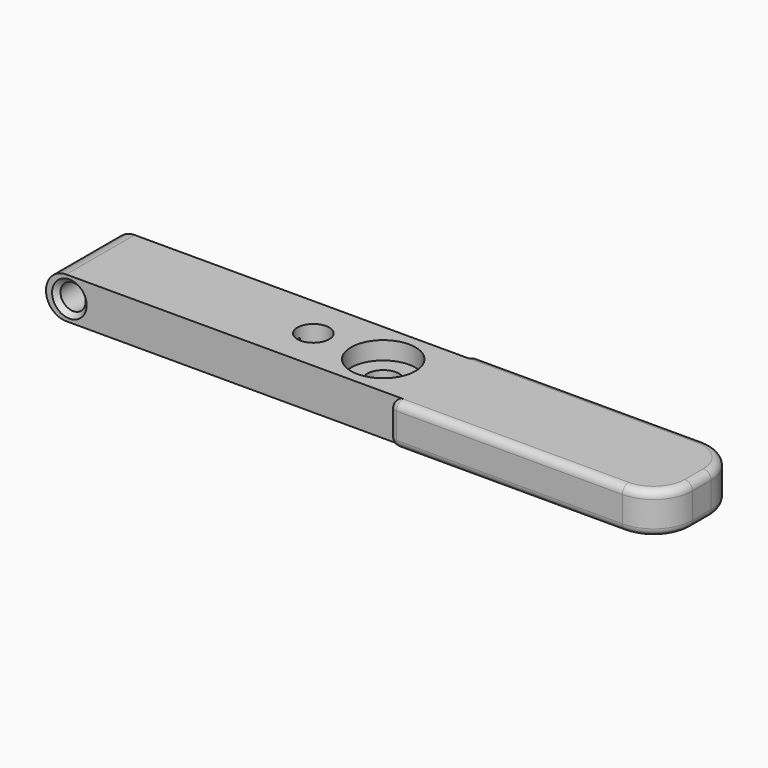
from build123d import *

# Parameters (mm, degrees)
PAD_DEPTH       = 5.3
SKETCH001_R     = 4.15
POCKET_DEPTH    = 2.3
SKETCH002_R     = 2.05
POCKET001_DEPTH = 3.001
FILLET_R        = 2.6
SKETCH003_R     = 1.625
POCKET002_DEPTH = 12.001
FILLET001_R     = 0.9
FILLET002_R     = 5
SKETCH004_R     = 2.05
POCKET003_DEPTH = 5.301
FILLET003_R     = 0.99
CHAMFER_SIZE    = 0.5
SKETCH005_W     = 0.5
SKETCH005_H     = 0.8
POCKET004_DEPTH = 4
CHAMFER001_SIZE = 0.6


with BuildPart() as part:
    # Sketch → Pad (new body)
    with BuildSketch(Plane.XY):
        Polygon((0, 5.5), (-45, 5.5), (-45, -5.5), (0, -5.5), (0, -6.5), (35, -6.5), (35, 6.5), (0, 6.5), align=None)
    extrude(amount=PAD_DEPTH)

    # Sketch001 (on Face10 of Pad) → Pocket (cut)
    with BuildSketch(Plane.XY.offset(5.3)):
        with Locations((-6, 0)):
            Circle(SKETCH001_R)
    extrude(amount=-POCKET_DEPTH, mode=Mode.SUBTRACT)

    # Sketch002 (on Face12 of Pocket) → Pocket001 (cut, through all)
    with BuildSketch(Plane.XY.offset(3)):
        with Locations((-6, 0)):
            Circle(SKETCH002_R)
    extrude(amount=-POCKET001_DEPTH, mode=Mode.SUBTRACT)

    # Fillet
    fillet_edges = [part.edges().sort_by_distance(p)[0] for p in [
        (-45, 0, 5.3),
        (-45, 0, 0),
    ]]
    fillet(fillet_edges, radius=FILLET_R)

    # Sketch003 (on Face1 of Fillet) → Pocket002 (cut, through all)
    with BuildSketch(Plane(origin=(0, 5.5, 0), x_dir=(-1, 0, 0), z_dir=(0, 1, 0))):
        with Locations((42, 2.65)):
            Circle(SKETCH003_R)
    extrude(amount=-POCKET002_DEPTH, mode=Mode.SUBTRACT)

    # Fillet001
    fillet001_edges = [part.edges().sort_by_distance(p)[0] for p in [
        (0, 6.5, 2.65),
        (0, -6.5, 2.65),
    ]]
    fillet(fillet001_edges, radius=FILLET001_R)

    # Fillet002
    fillet002_edges = [part.edges().sort_by_distance(p)[0] for p in [
        (35, 6.5, 2.65),
        (35, -6.5, 2.65),
    ]]
    fillet(fillet002_edges, radius=FILLET002_R)

    # Sketch004 (on Face15 of Fillet002) → Pocket003 (cut, through all)
    with BuildSketch(Plane.XY.offset(5.3)):
        with Locations((-15, 0)):
            Circle(SKETCH004_R)
    extrude(amount=-POCKET003_DEPTH, mode=Mode.SUBTRACT)

    # Fillet003
    fillet003_edges = [part.edges().sort_by_distance(p)[0] for p in [
        (0.263604, -6.236396, 5.3),
        (15.45, -6.5, 5.3),
        (33.535534, -5.035534, 5.3),
        (35, 0, 5.3),
        (33.535534, 5.035534, 5.3),
        (15.45, 6.5, 5.3),
        (0.263604, 6.236396, 5.3),
        (0.263604, 6.236396, 0),
        (15.45, 6.5, 0),
        (33.535534, 5.035534, 0),
        (35, 0, 0),
        (33.535534, -5.035534, 0),
        (15.45, -6.5, 0),
    ]]
    fillet(fillet003_edges, radius=FILLET003_R)

    # Chamfer
    chamfer_edges = [part.edges().sort_by_distance(p)[0] for p in [
        (-17.05, 0, 0),
        (-8.05, 0, 0),
    ]]
    chamfer(chamfer_edges, length=CHAMFER_SIZE)

    # Sketch005 (on Face1 of Chamfer) → Pocket004 (cut)
    with BuildSketch(Plane(origin=(0, 0, 0), x_dir=(1, 0, 0), z_dir=(0, 0, -1))):
        with Locations((-17.15, 0)):
            Rectangle(SKETCH005_W, SKETCH005_H)
    extrude(amount=-POCKET004_DEPTH, mode=Mode.SUBTRACT)

    # Chamfer001
    chamfer001_edges = [part.edges().sort_by_distance(p)[0] for p in [
        (-40.375, 5.5, 2.65),
        (-40.375, -5.5, 2.65),
    ]]
    chamfer(chamfer001_edges, length=CHAMFER001_SIZE)


solid = part.part
